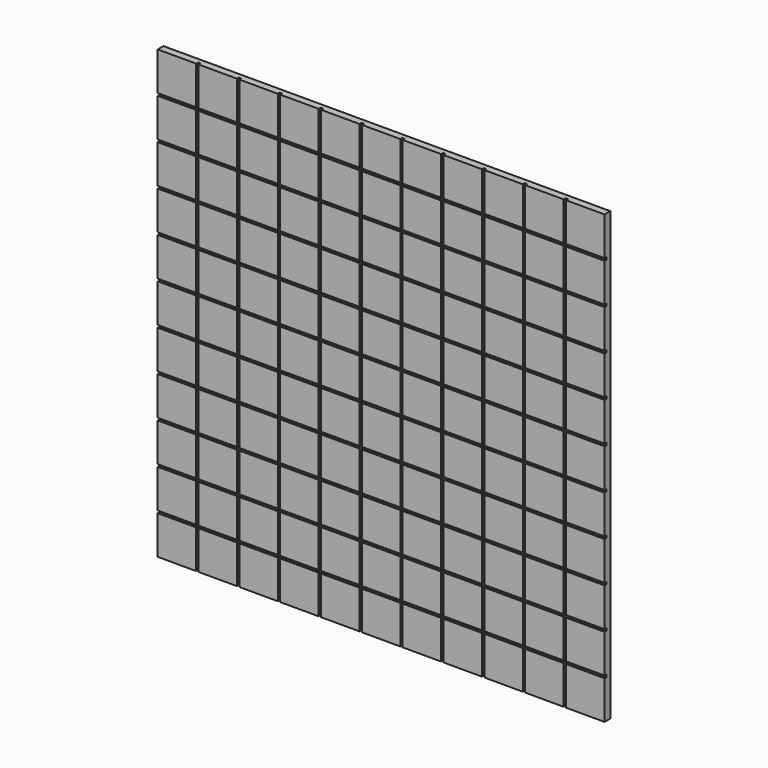
from build123d import *

# Parameters (mm, degrees)
F0_W     = 590.55
F0_H     = 590.55
F1_DEPTH = 19.05
F2_W     = 3.175
F2_H     = 590.55
F3_DEPTH = 3.175
F4_W     = 590.55
F4_H     = 3.175
F5_DEPTH = 3.175
F6_W     = 590.55
F6_H     = 590.55
F6_W_2   = 565.15
F6_H_2   = 565.15
F7_DEPTH = 9.525


with BuildPart() as f1:
    # F0 (on Front) → F1 (new body)
    with BuildSketch(Plane.XZ):
        Rectangle(F0_W, F0_H)
    extrude(amount=F1_DEPTH)

    # F2 (on face) → F3 (cut)
    with BuildSketch(Plane.XZ.offset(19.05)):
        with Locations((-242.8875, 0)):
            Rectangle(F2_W, F2_H)
        with Locations((-188.9125, 0)):
            Rectangle(F2_W, F2_H)
        with Locations((-134.9375, 0)):
            Rectangle(F2_W, F2_H)
        with Locations((-80.9625, 0)):
            Rectangle(F2_W, F2_H)
        with Locations((-26.9875, 0)):
            Rectangle(F2_W, F2_H)
        with Locations((26.9875, 0)):
            Rectangle(F2_W, F2_H)
        with Locations((80.9625, 0)):
            Rectangle(F2_W, F2_H)
        with Locations((134.9375, 0)):
            Rectangle(F2_W, F2_H)
        with Locations((188.9125, 0)):
            Rectangle(F2_W, F2_H)
        with Locations((242.8875, 0)):
            Rectangle(F2_W, F2_H)
    extrude(amount=-F3_DEPTH, mode=Mode.SUBTRACT)

    # F4 (on face) → F5 (cut)
    with BuildSketch(Plane.XZ.offset(19.05)):
        with Locations((0, 242.8875)):
            Rectangle(F4_W, F4_H)
        with Locations((0, 188.9125)):
            Rectangle(F4_W, F4_H)
        with Locations((0, 134.9375)):
            Rectangle(F4_W, F4_H)
        with Locations((0, 80.9625)):
            Rectangle(F4_W, F4_H)
        with Locations((0, 26.9875)):
            Rectangle(F4_W, F4_H)
        with Locations((0, -26.9875)):
            Rectangle(F4_W, F4_H)
        with Locations((0, -80.9625)):
            Rectangle(F4_W, F4_H)
        with Locations((0, -134.9375)):
            Rectangle(F4_W, F4_H)
        with Locations((0, -188.9125)):
            Rectangle(F4_W, F4_H)
        with Locations((0, -242.8875)):
            Rectangle(F4_W, F4_H)
    extrude(amount=-F5_DEPTH, mode=Mode.SUBTRACT)

    # F6 (on face) → F7 (cut)
    with BuildSketch(Plane(origin=(0, 0, 0), x_dir=(-1, 0, 0), z_dir=(0, 1, 0))):
        Rectangle(F6_W, F6_H)
        Rectangle(F6_W_2, F6_H_2, mode=Mode.SUBTRACT)
    extrude(amount=-F7_DEPTH, mode=Mode.SUBTRACT)


solid = f1.part
